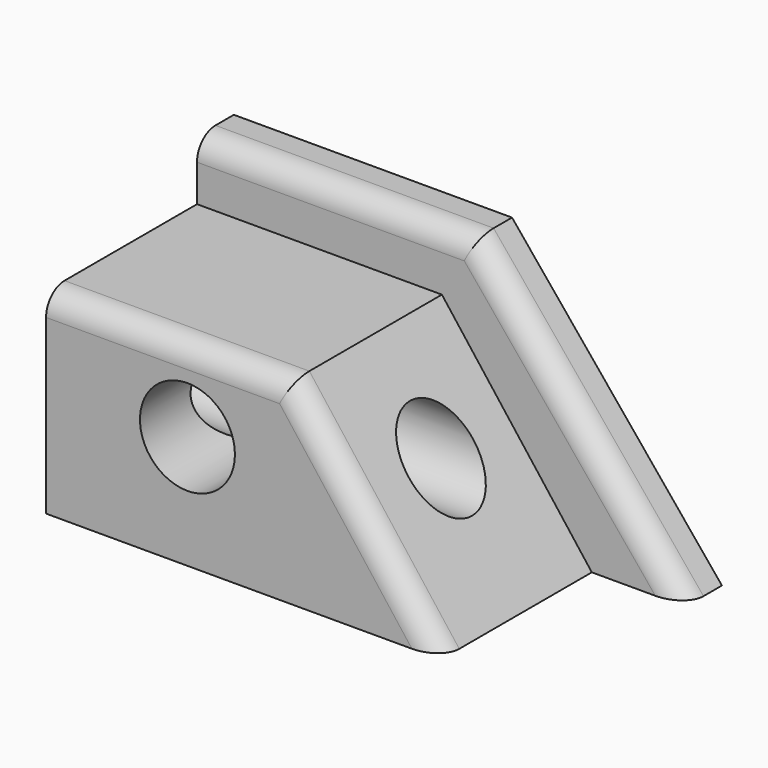
from build123d import *

# Parameters (mm, degrees)
F1_DEPTH = 51.816
F2_DEPTH = 10.16
F3_R     = 8.94315
F4_DEPTH = 101.6
F5_R     = 9.219665
F6_DEPTH = 50.8
F7_R     = 10.48142
F8_DEPTH = 50.8
F9_R     = 5.08


with BuildPart() as f1:
    # F0 (on Front) → F1 (new body)
    with BuildSketch(Plane.XZ):
        Polygon((54.062217, 43.212991), (0, 43.212991), (0, 0), (87.161534, 0), align=None)
    extrude(amount=F1_DEPTH)

    # F0 (on Front) → F2 (join)
    with BuildSketch(Plane.XZ):
        Polygon((61.417621, 56.452714), (0, 56.452714), (0, 43.212991), (54.062217, 43.212991), (87.161534, 0), (107.756652, 0), align=None)
    extrude(amount=F2_DEPTH)

    # F3 (on Right) → F4 (cut)
    with BuildSketch(Plane.YZ):
        with Locations((-28.951842, 23.85469)):
            Circle(F3_R)
    extrude(amount=F4_DEPTH, mode=Mode.SUBTRACT)

    # F5 (on face) → F6 (cut)
    with BuildSketch(Plane.XZ.offset(51.816)):
        with Locations((32.87245, 25.28506)):
            Circle(F5_R)
    extrude(amount=F6_DEPTH, mode=Mode.SUBTRACT)

    # F7 (on face) → F8 (cut)
    with BuildSketch(Plane.XZ.offset(51.816)):
        with Locations((31.210523, 25.047641)):
            Circle(F7_R)
    extrude(amount=-F8_DEPTH, mode=Mode.SUBTRACT)

    # F9
    f9_edges = [f1.edges().sort_by_distance(p)[0] for p in [
        (30.70881, -10.16, 56.452714),
        (84.587136, -10.16, 28.226357),
        (27.031109, -51.816, 43.212991),
        (70.611876, -51.816, 21.606496),
    ]]
    fillet(f9_edges, radius=F9_R)


solid = f1.part
